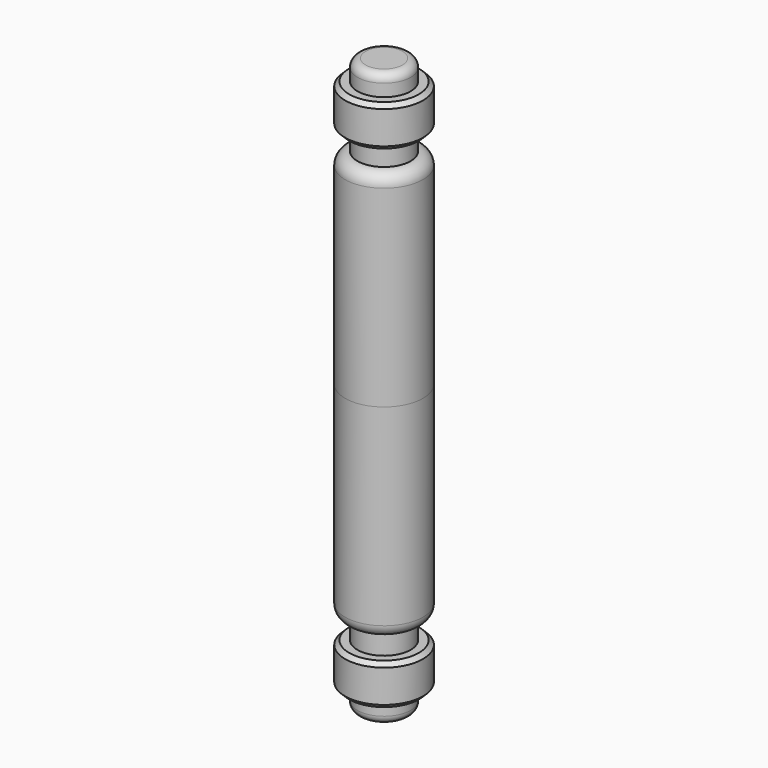
from build123d import *

# Parameters (mm, degrees)
F4_SIZE = 1


with BuildPart() as f1:
    # F0 (on Front) → F1 (revolve)
    with BuildSketch(Plane.XZ):
        with BuildLine():
            Line((0, 70), (0, 0))
            Line((0, 0), (4.5, 0))
            ThreePointArc((4.5, 0), (5.9142135624, 0.5857864376), (6.5, 2))
            Line((6.5, 2), (6.5, 5))
            Line((6.5, 5), (9.5, 5))
            Line((9.5, 5), (9.5, 15))
            Line((9.5, 15), (6.5, 15))
            Line((6.5, 15), (6.5, 20))
            ThreePointArc((6.5, 20), (8.6213203436, 20.8786796564), (9.5, 23))
            Line((9.5, 23), (9.5, 70))
            Line((9.5, 70), (0, 70))
        make_face()
    revolve(axis=Axis((0, 0, 35), (0, 0, 1)))

    # F3: F1 across plane


with BuildPart() as f1_1:
    add(f1.part)
    add(f1.part.mirror(Plane.XY.offset(70)))

    # F4
    f4_edges = [f1_1.edges().sort_by_distance(p)[0] for p in [
        (-9.5, 0, 135),
        (-9.5, 0, 125),
        (9.5, 0, 130),
        (-9.5, 0, 5),
        (-9.5, 0, 15),
        (9.5, 0, 10),
    ]]
    chamfer(f4_edges, length=F4_SIZE)


solid = f1_1.part
